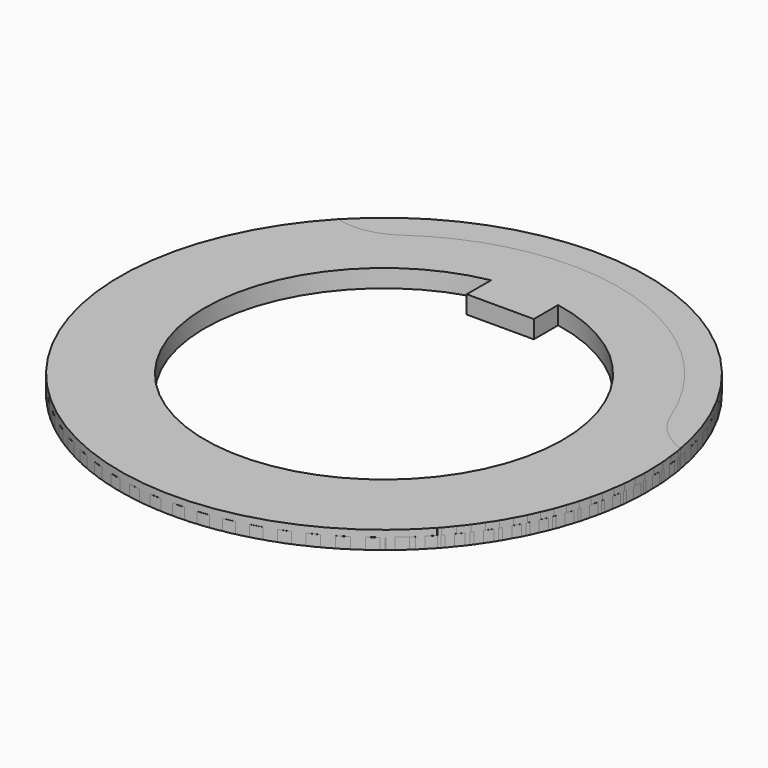
from build123d import *

# Parameters (mm, degrees)
F1_DEPTH = 0.5
F3_DEPTH = 0.8
F5_DEPTH = 0.5
F7_DEPTH = 0.8


with BuildPart() as f1:
    # F0 (on Top) → F1 (new body)
    with BuildSketch(Plane.XY):
        with BuildLine():
            Line((6.445634, -9.594181), (7.405834, -9.1866))
            ThreePointArc((7.405834, -9.1866), (3.116261, 11.381077), (-11.052732, -4.132447))
            ThreePointArc((-11.052732, -4.132447), (-9.836876, -4.592421), (-8.929749, -5.523549))
            ThreePointArc((-8.929749, -5.523549), (-2.800136, -10.119745), (4.82027, -9.328183))
            ThreePointArc((4.82027, -9.328183), (5.676965, -9.192243), (6.445634, -9.594181))
        make_face()
        with BuildLine():
            ThreePointArc((1.5, 7.858117), (0, -8), (-1.5, 7.858117))
            Line((-1.5, 7.858117), (-1.5, 6.5))
            Line((-1.5, 6.5), (1.5, 6.5))
            Line((1.5, 6.5), (1.5, 7.858117))
        make_face(mode=Mode.SUBTRACT)
    extrude(amount=F1_DEPTH)


with BuildPart() as f3:
    # F2 (on Top) → F3 (new body)
    with BuildSketch(Plane.XY):
        with BuildLine():
            ThreePointArc((6.247244, -8.43931), (7.434829, -7.910612), (8.734574, -7.933928))
            ThreePointArc((8.734574, -7.933928), (2.023691, 11.625174), (-10.901778, -4.515665))
            ThreePointArc((-10.901778, -4.515665), (-9.670611, -4.932925), (-8.73154, -5.831828))
            ThreePointArc((-8.73154, -5.831828), (-1.800742, -10.344435), (6.247244, -8.43931))
        make_face()
        with BuildLine():
            ThreePointArc((1.5, 7.858117), (0, -8), (-1.5, 7.858117))
            Line((-1.5, 7.858117), (-1.5, 6.5))
            Line((-1.5, 6.5), (1.5, 6.5))
            Line((1.5, 6.5), (1.5, 7.858117))
        make_face(mode=Mode.SUBTRACT)
    extrude(amount=F3_DEPTH)


with BuildPart() as f5:
    # F4 (on Top) → F5 (new body)
    with BuildSketch(Plane.XY):
        with BuildLine():
            Line((-6.283247, 9.66311), (-7.405834, 9.1866))
            ThreePointArc((-7.405834, 9.1866), (-4.336761, -10.974174), (11.685163, 1.642243))
            ThreePointArc((11.685163, 1.642243), (10.597685, 2.354472), (9.913593, 3.459867))
            ThreePointArc((9.913593, 3.459867), (3.823028, 9.779287), (-4.93863, 9.266064))
            ThreePointArc((-4.93863, 9.266064), (-5.692172, 9.189484), (-6.283247, 9.66311))
        make_face()
        with BuildLine():
            ThreePointArc((1.5, 7.858117), (0, -8), (-1.5, 7.858117))
            Line((-1.5, 7.858117), (-1.5, 6.5))
            Line((-1.5, 6.5), (1.5, 6.5))
            Line((1.5, 6.5), (1.5, 7.858117))
        make_face(mode=Mode.SUBTRACT)
    extrude(amount=F5_DEPTH)


with BuildPart() as f7:
    # F6 (on Top) → F7 (new body)
    with BuildSketch(Plane.XY):
        with BuildLine():
            ThreePointArc((-6.061654, 8.573584), (-7.260491, 8.070919), (-8.559418, 8.122584))
            ThreePointArc((-8.559418, 8.122584), (-3.400716, -11.299342), (11.620731, 2.049048))
            ThreePointArc((11.620731, 2.049048), (10.509059, 2.722892), (9.786806, 3.803739))
            ThreePointArc((9.786806, 3.803739), (3.026061, 10.054499), (-6.061654, 8.573584))
        make_face()
        with BuildLine():
            ThreePointArc((1.5, 7.858117), (0, -8), (-1.5, 7.858117))
            Line((-1.5, 7.858117), (-1.5, 6.5))
            Line((-1.5, 6.5), (1.5, 6.5))
            Line((1.5, 6.5), (1.5, 7.858117))
        make_face(mode=Mode.SUBTRACT)
    extrude(amount=F7_DEPTH)


solid = Compound([f1.part, f3.part, f5.part, f7.part])
